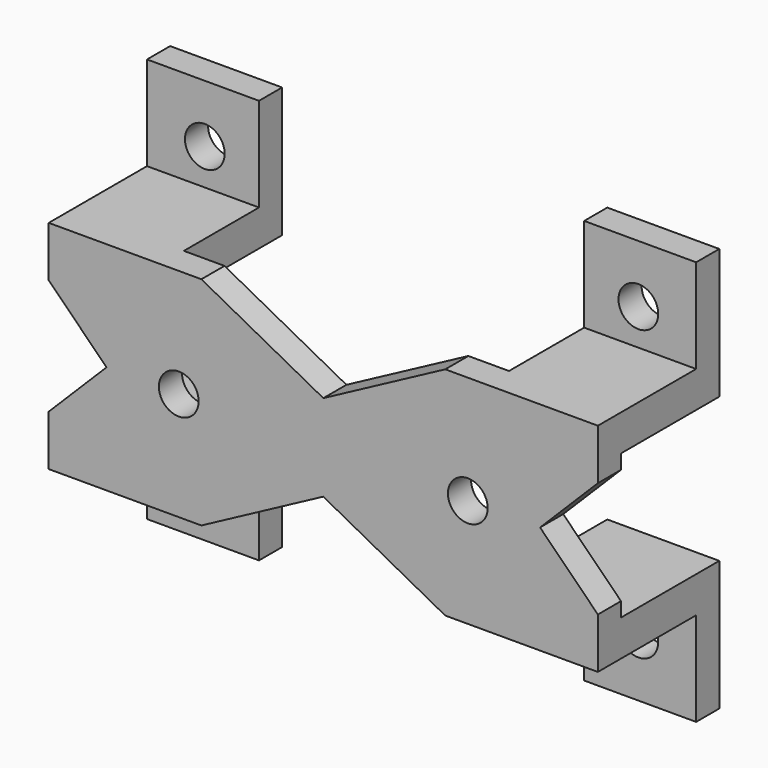
from build123d import *

# Parameters (mm, degrees)
SKETCH023_W     = 76
SKETCH023_H     = 30
PAD006_DEPTH    = 4
PAD007_DEPTH    = 76
SKETCH028_R     = 2.75
HOLE004_DEPTH   = 24.001
SKETCH032_R     = 2.75
HOLE005_DEPTH   = 25.001
SKETCH033_W     = 45
SKETCH033_H     = 20
POCKET010_DEPTH = 56.001
POCKET011_DEPTH = 21.001


with BuildPart() as part:
    # Sketch023 → Pad006 (new body)
    with BuildSketch(Plane.XZ):
        with Locations((-170, 200)):
            Rectangle(SKETCH023_W, SKETCH023_H)
    extrude(amount=PAD006_DEPTH)

    # Sketch024 → Pad007 (join)
    with BuildSketch(Plane.YZ.offset(-132)):
        Polygon((0, 215), (0, 210), (17, 210), (17, 228), (13, 228), (13, 215), align=None)
        Polygon((0, 190), (17, 190), (17, 172), (13, 172), (13, 185), (0, 185), align=None)
    extrude(amount=-PAD007_DEPTH)

    # Sketch028 → Hole004 (cut, through all)
    with BuildSketch(Plane(origin=(0, 20, 0), x_dir=(1, 0, 0), z_dir=(0, 1, 0))):
        with Locations((-200, -220)):
            Circle(SKETCH028_R)
        with Locations((-200, -180)):
            Circle(SKETCH028_R)
        with Locations((-140, -180)):
            Circle(SKETCH028_R)
        with Locations((-140, -220)):
            Circle(SKETCH028_R)
    extrude(amount=-HOLE004_DEPTH, mode=Mode.SUBTRACT)

    # Sketch032 → Hole005 (cut, through all)
    with BuildSketch(Plane.XZ.offset(8)):
        with Locations((-190, 200)):
            Circle(SKETCH032_R)
        with Locations((-150, 200)):
            Circle(SKETCH032_R)
    extrude(amount=-HOLE005_DEPTH, mode=Mode.SUBTRACT)

    # Sketch033 (on Face22 of Hole005) → Pocket010 (cut, through all)
    with BuildSketch(Plane(origin=(0, 0, 228), x_dir=(-1, 0, 0), z_dir=(0, 0, 1))):
        with Locations((170, -10)):
            Rectangle(SKETCH033_W, SKETCH033_H)
    extrude(amount=-POCKET010_DEPTH, mode=Mode.SUBTRACT)

    # Sketch034 (on Face7 of Pocket010) → Pocket011 (cut, through all)
    with BuildSketch(Plane.XZ.offset(4)):
        Polygon((-210, 210), (-200, 200), (-210, 190), align=None)
        Polygon((-130, 210), (-140, 200), (-130, 190), align=None)
        Polygon((-192.5, 218), (-147.5, 218), (-170, 206), align=None)
        Polygon((-192.5, 182), (-147.5, 182), (-170, 194), align=None)
    extrude(amount=-POCKET011_DEPTH, mode=Mode.SUBTRACT)


with BuildPart() as part_1:
    # Body004 placement: moved
    add(part.part.moved(Location((0, 119, 0))))


solid = part_1.part
